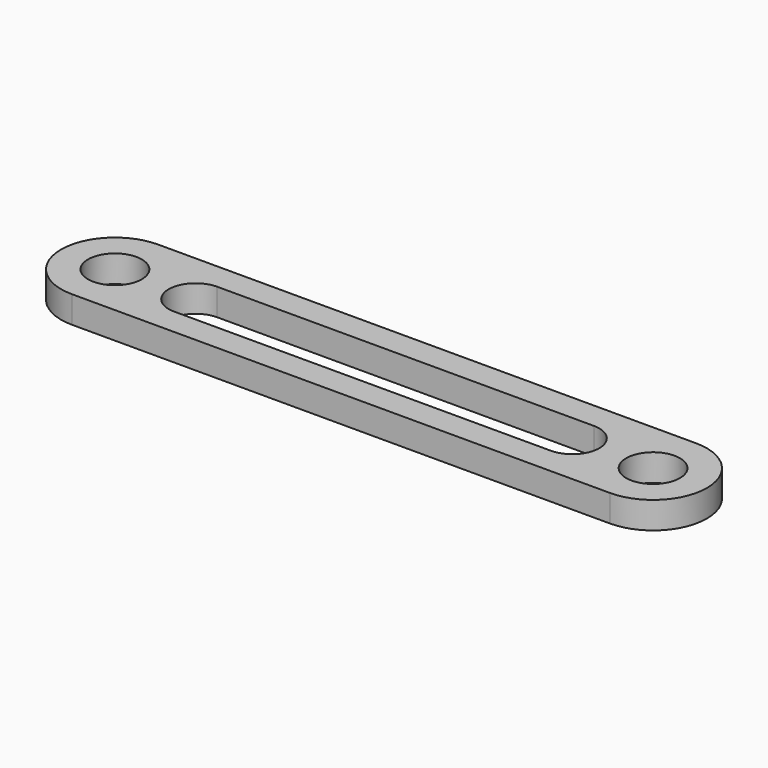
from build123d import *

# Parameters (mm, degrees)
F0_R     = 5
F1_DEPTH = 5


with BuildPart() as f1:
    # F0 (on Top) → F1 (new body)
    with BuildSketch(Plane.XY):
        with BuildLine():
            Line((100, 10), (0, 10))
            ThreePointArc((0, 10), (-10, 0), (0, -10))
            Line((0, -10), (100, -10))
            ThreePointArc((100, -10), (110, 0), (100, 10))
        make_face()
        Circle(F0_R, mode=Mode.SUBTRACT)
        with BuildLine():
            ThreePointArc((15.175696, -4.996912), (10.000772, -0.087862), (15, 5))
            Line((15, 5), (85, 5))
            ThreePointArc((85, 5), (89.999228, 0.087862), (85.175696, -4.996912))
            ThreePointArc((85.175696, -4.996912), (85, -5), (84.824304, -4.996912))
            Line((84.824304, -4.996912), (15.175696, -4.996912))
        make_face(mode=Mode.SUBTRACT)
        with Locations((100, 0)):
            Circle(F0_R, mode=Mode.SUBTRACT)
    extrude(amount=F1_DEPTH)


solid = f1.part
